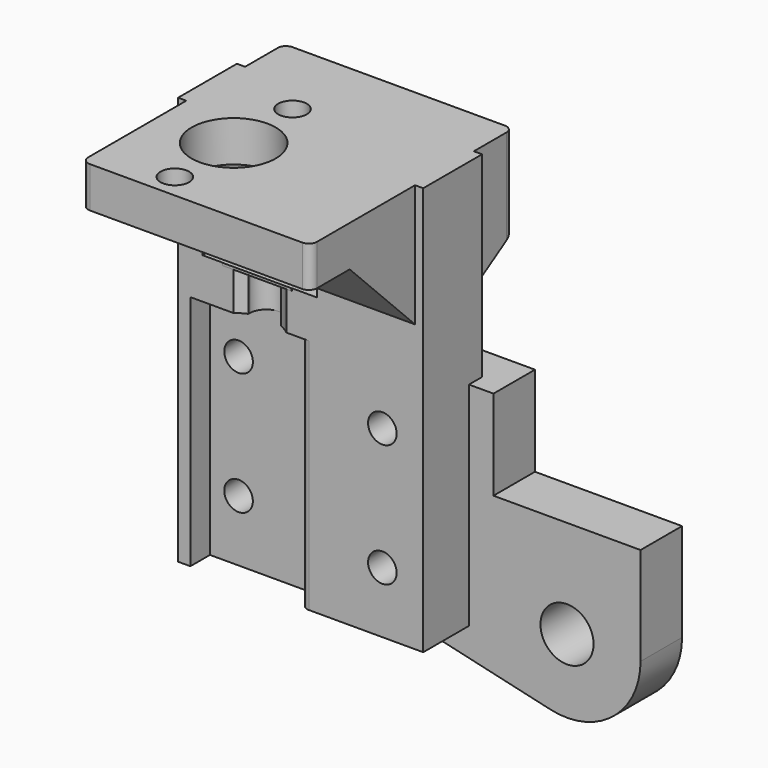
from build123d import *

# Parameters (mm, degrees)
SKETCH_R          = 1.75
SKETCH_R_2        = 3.25
PAD_DEPTH         = 6.35
PAD001_DEPTH      = 14
PAD001_DEPTH_BACK = 14
SKETCH003_R       = 1.75
POCKET_DEPTH      = 6
SKETCH010_W       = 11
SKETCH010_H       = 14
POCKET001_DEPTH   = 11
SKETCH007_R       = 1.75
POCKET002_DEPTH   = 16.001
SKETCH008_W       = 7.043208
SKETCH008_H       = 14
POCKET003_DEPTH   = 32
SKETCH013_R       = 1.75
POCKET004_DEPTH   = 5
SKETCH012_R       = 5.15
POCKET005_DEPTH   = 50.001
POCKET006_DEPTH   = 5
SKETCH017_W       = 3.890195
SKETCH017_H       = 8.467605
PAD002_DEPTH      = 0.3
FILLET_R          = 1
FILLET001_R       = 2
FILLET002_R       = 1
CHAMFER_SIZE      = 10
CHAMFER001_SIZE   = 5
SKETCH018_W       = 9
SKETCH018_H       = 1.5
PAD003_DEPTH      = 50


with BuildPart() as tab:
    # Sketch → Pad (new body)
    with BuildSketch(Plane.XZ):
        with BuildLine():
            Line((-13, 11), (18, 11))
            Line((18, 11), (18, 0))
            Line((18, 0), (36, 0))
            Line((36, 0), (36, -12))
            ThreePointArc((24.974342, -20.769077), (32.602191, -19.043824), (36, -12))
            Line((0, -15), (24.974342, -20.769077))
            Line((-13, -15), (0, -15))
            Line((-13, -15), (-13, 11))
        make_face()
        with Locations((-10, 7.5)):
            Circle(SKETCH_R, mode=Mode.SUBTRACT)
        with Locations((10, 7.5)):
            Circle(SKETCH_R, mode=Mode.SUBTRACT)
        with Locations((-10, -7.5)):
            Circle(SKETCH_R, mode=Mode.SUBTRACT)
        with Locations((10, -7.5)):
            Circle(SKETCH_R, mode=Mode.SUBTRACT)
        with Locations((27, -12)):
            Circle(SKETCH_R_2, mode=Mode.SUBTRACT)
    extrude(amount=PAD_DEPTH)


with BuildPart() as tab_1:
    # Body placement: moved
    add(tab.part.moved(Location((0, 6.35, 0))))


with BuildPart() as obj1:
    # Sketch005 → Pad001 (new body, two sides)
    with BuildSketch(Plane.YZ) as pad001_sk:
        Polygon((0, -15), (0, 19), (8, 24), (8, 35), (-23, 35), (-23, 30), (-7, 30), (-7, -15), align=None)
    extrude(amount=PAD001_DEPTH)
    extrude(pad001_sk.sketch, amount=-PAD001_DEPTH_BACK)

    # Sketch003 → Pocket (cut)
    with BuildSketch(Plane(origin=(0, 0, 29), x_dir=(-1, 0, 0), z_dir=(0, 0, 1))):
        with Locations((5, 21.5)):
            Circle(SKETCH003_R)
        with Locations((5, 3.5)):
            Circle(SKETCH003_R)
    extrude(amount=-POCKET_DEPTH, mode=Mode.SUBTRACT)

    # Sketch010 (on Face6 of Pocket) → Pocket001 (cut)
    with BuildSketch(Plane(origin=(0, -7, 0), x_dir=(0, 0, -1), z_dir=(0, -1, 0))):
        with Locations((-24.5, -5)):
            Rectangle(SKETCH010_W, SKETCH010_H)
    extrude(amount=-POCKET001_DEPTH, mode=Mode.SUBTRACT)

    # Sketch007 → Pocket002 (cut, through all)
    with BuildSketch(Plane(origin=(0, -8, 0), x_dir=(0, 0, -1), z_dir=(0, -1, 0))):
        with Locations((-7.5, 10)):
            Circle(SKETCH007_R)
        with Locations((7.5, 10)):
            Circle(SKETCH007_R)
        with Locations((-7.5, -10)):
            Circle(SKETCH007_R)
        with Locations((7.5, -10)):
            Circle(SKETCH007_R)
    extrude(amount=-POCKET002_DEPTH, mode=Mode.SUBTRACT)

    # Sketch008 → Pocket003 (cut)
    with BuildSketch(Plane.YX.offset(18)):
        with Locations((-7.521604, -7)):
            Rectangle(SKETCH008_W, SKETCH008_H)
    extrude(amount=-POCKET003_DEPTH, mode=Mode.SUBTRACT)

    # Sketch013 → Pocket004 (cut)
    with BuildSketch(Plane(origin=(0, 0, 35), x_dir=(0, -1, 0), z_dir=(0, 0, 1))):
        with Locations((2, -5)):
            Circle(SKETCH013_R)
        with Locations((20, -5)):
            Circle(SKETCH013_R)
    extrude(amount=-POCKET004_DEPTH, mode=Mode.SUBTRACT)

    # Sketch012 → Pocket005 (cut, through all)
    with BuildSketch(Plane(origin=(0, 0, 35), x_dir=(0, -1, 0), z_dir=(0, 0, 1))):
        with Locations((11, -5)):
            Circle(SKETCH012_R)
    extrude(amount=-POCKET005_DEPTH, mode=Mode.SUBTRACT)

    # Sketch016 → Pocket006 (cut)
    with BuildSketch(Plane.YX.offset(-14)):
        with BuildLine():
            ThreePointArc((-6.036054, -6.997931), (-4.036054, -4.997931), (-6.036054, -2.997931))
            Line((-6.036054, -2.997931), (-13.535141, -2.997931))
            ThreePointArc((-13.535141, -2.997931), (-15.535141, -4.997931), (-13.535141, -6.997931))
            Line((-6.036054, -6.997931), (-13.535141, -6.997931))
        make_face()
    extrude(amount=-POCKET006_DEPTH, mode=Mode.SUBTRACT)

    # Sketch017 (on Face6 of Pocket005) → Pad002 (join)
    with BuildSketch(Plane(origin=(0, 0, 19), x_dir=(0, -1, 0), z_dir=(0, 0, 1))):
        with Locations((5.08562, -5.307749)):
            Rectangle(SKETCH017_W, SKETCH017_H)
    extrude(amount=-PAD002_DEPTH)

    # Fillet
    fillet_edges = [obj1.edges().sort_by_distance(p)[0] for p in [
        (-14, -23, 32.5),
        (14, -23, 32.5),
        (14, 8, 29.5),
        (-14, 8, 29.5),
    ]]
    fillet(fillet_edges, radius=FILLET_R)

    # Fillet001
    fillet001_edges = [obj1.edges().sort_by_distance(p)[0] for p in [
        (2, 4, 25.75),
        (-12, 4, 25.75),
    ]]
    fillet(fillet001_edges, radius=FILLET001_R)

    # Fillet002
    fillet002_edges = [obj1.edges().sort_by_distance(p)[0] for p in [
        (0, -7, -0.5),
        (0, -4, -0.5),
    ]]
    fillet(fillet002_edges, radius=FILLET002_R)

    # Chamfer
    chamfer_edges = [obj1.edges().sort_by_distance(p)[0] for p in [
        (8, -7, 30),
    ]]
    chamfer(chamfer_edges, length=CHAMFER_SIZE)

    # Chamfer001
    chamfer001_edges = [obj1.edges().sort_by_distance(p)[0] for p in [
        (-13, -7, 30),
    ]]
    chamfer(chamfer001_edges, length=CHAMFER001_SIZE)

    # Sketch018 (on Face20 of Chamfer001) → Pad003 (join)
    with BuildSketch(Plane.YX.offset(15)):
        with Locations((-2.5, 14.25)):
            Rectangle(SKETCH018_W, SKETCH018_H)
        with Locations((-2.5, -14.25)):
            Rectangle(SKETCH018_W, SKETCH018_H)
    extrude(amount=-PAD003_DEPTH)


solid = Compound([tab_1.part, obj1.part])
